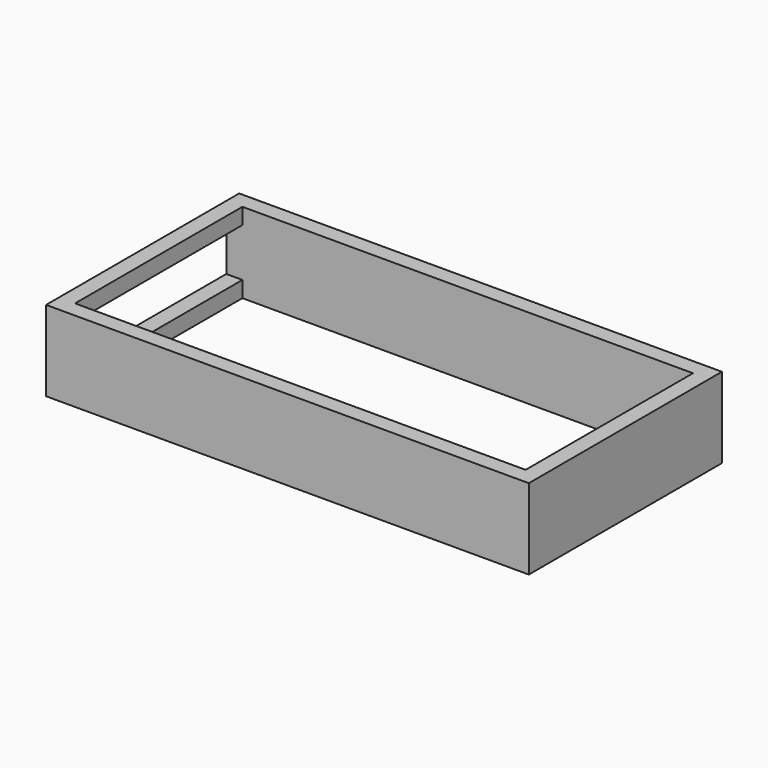
from build123d import *

# Parameters (mm, degrees)
F0_W     = 150
F0_H     = 75
F1_DEPTH = 25
F2_T     = -5
F3_W     = 140
F3_H     = 65
F4_DEPTH = 25.001


with BuildPart() as f1:
    # F0 (on Top) → F1 (new body)
    with BuildSketch(Plane.XY):
        Rectangle(F0_W, F0_H)
    extrude(amount=F1_DEPTH)

    # F2
    f2_openings = [f1.faces().sort_by_distance(p)[0] for p in [
        (-75, 0, 12.5),
    ]]
    offset(amount=F2_T, openings=f2_openings)

    # F3 (on Top) → F4 (cut, through all)
    with BuildSketch(Plane.XY):
        Rectangle(F3_W, F3_H)
    extrude(amount=F4_DEPTH, mode=Mode.SUBTRACT)


solid = f1.part
